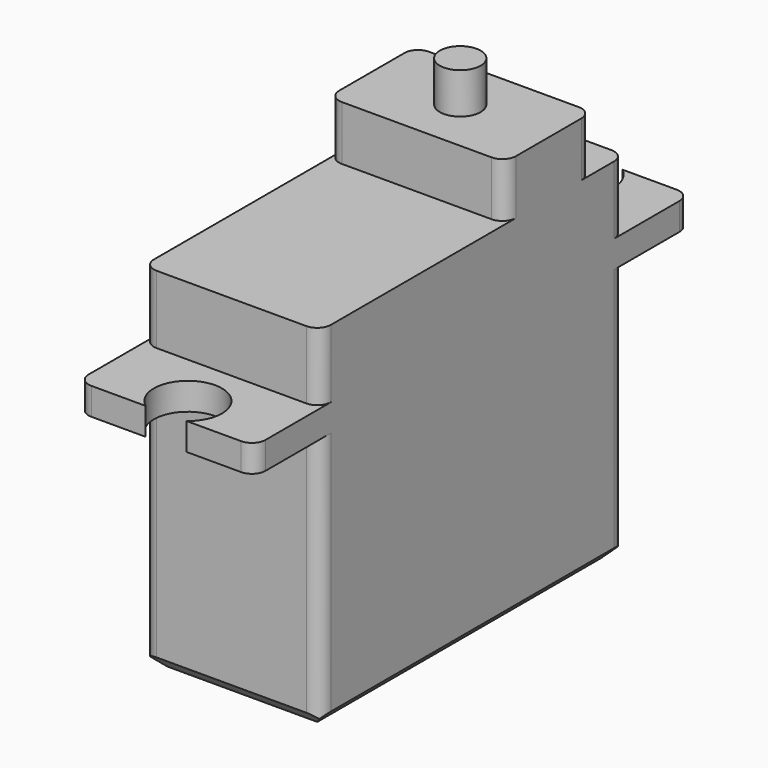
from build123d import *

# Parameters (mm, degrees)
F0_W     = 8
F0_H     = 4
F1_DEPTH = 6.5
F2_R     = 1.5
F3_DEPTH = 3
F4_SIZE  = 1
F5_R     = 1
F6_R     = 2.5
F7_DEPTH = 25


with BuildPart() as f1:
    # F0 (on Right) → F1 (new body, symmetric)
    with BuildSketch(Plane.YZ):
        Polygon((0, 0), (0, 19), (6, 19), (6, 21), (0, 21), (0, 26), (-3, 26), (-11, 26), (-28, 26), (-28, 21), (-34, 21), (-34, 19), (-28, 19), (-28, 0), align=None)
        with Locations((-7, 28)):
            Rectangle(F0_W, F0_H)
    extrude(amount=F1_DEPTH, both=True)

    # F2 (on face) → F3 (join)
    with BuildSketch(Plane.XY.offset(30)):
        with Locations((0, -7)):
            Circle(F2_R)
    extrude(amount=F3_DEPTH)

    # F4
    f4_edges = [f1.edges().sort_by_distance(p)[0] for p in [
        (-6.5, -14, 0),
        (0, 0, 0),
        (6.5, -14, 0),
        (0, -28, 0),
    ]]
    chamfer(f4_edges, length=F4_SIZE)

    # F5
    f5_edges = [f1.edges().sort_by_distance(p)[0] for p in [
        (6.5, 0, 10),
        (6.5, 0, 23.5),
        (-6.5, 0, 23.5),
        (6.5, -3, 28),
        (6.5, -11, 28),
        (-6.5, -11, 28),
        (-6.5, -3, 28),
        (6.5, -28, 23.5),
        (-6.5, -28, 23.5),
        (6.5, -34, 20),
        (-6.5, -34, 20),
        (6.5, -28, 10),
        (-6.5, -28, 10),
        (6.5, 6, 20),
        (-6.5, 6, 20),
    ]]
    fillet(f5_edges, radius=F5_R)

    # F6 (on face) → F7 (cut)
    with BuildSketch(Plane.XY.offset(21)):
        with Locations((0, 4)):
            Circle(F6_R)
        with Locations((0, -32)):
            Circle(F6_R)
    extrude(amount=-F7_DEPTH, mode=Mode.SUBTRACT)


solid = f1.part
